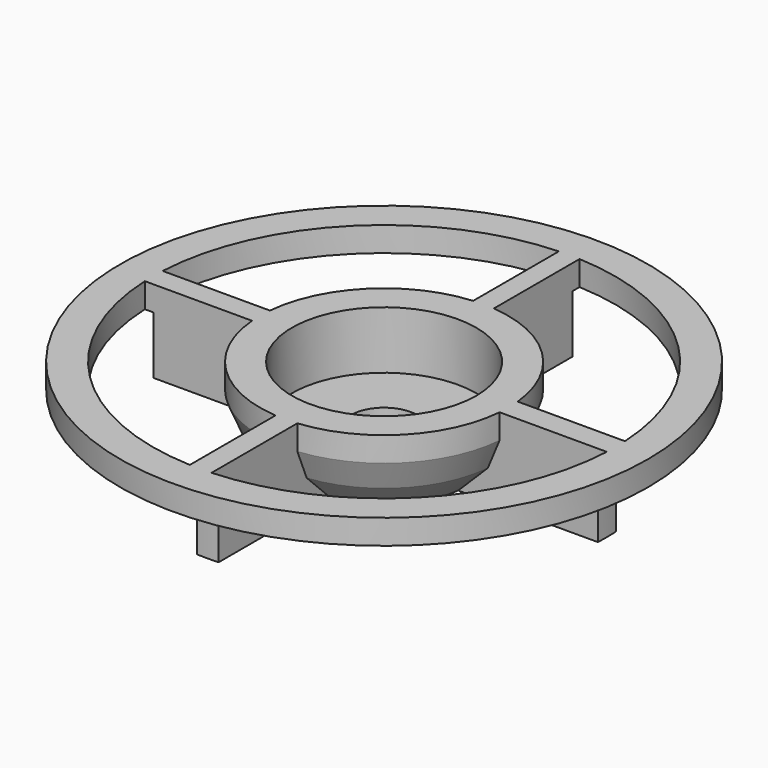
from build123d import *

# Parameters (mm, degrees)
F0_R     = 26.9884014256
F1_DEPTH = 7
F2_R     = 32.0417466588
F2_R_2   = 26.9884014256
F3_DEPTH = 3
F4_R     = 11.1906834264
F5_DEPTH = 7
F6_R     = 4.0199304585
F7_DEPTH = 25
F9_DEPTH = 25
F10_SIZE = 5
F11_SIZE = 2


with BuildPart() as f1:
    # F0 (on Top) → F1 (new body)
    with BuildSketch(Plane.XY):
        Circle(F0_R)
    extrude(amount=F1_DEPTH)

    # F2 (on face) → F3 (join)
    with BuildSketch(Plane.XY.offset(7)):
        Circle(F2_R)
        Circle(F2_R_2, mode=Mode.SUBTRACT)
        Circle(F2_R_2)
    extrude(amount=F3_DEPTH)

    # F4 (on face) → F5 (cut)
    with BuildSketch(Plane.XY.offset(10)):
        Circle(F4_R)
    extrude(amount=-F5_DEPTH, mode=Mode.SUBTRACT)

    # F6 (on face) → F7 (cut)
    with BuildSketch(Plane.XY.offset(3)):
        Circle(F6_R)
    extrude(amount=-F7_DEPTH, mode=Mode.SUBTRACT)

    # F8 (on face) → F9 (cut)
    with BuildSketch(Plane.XY.offset(10)):
        with BuildLine():
            ThreePointArc((-15.0136980872, 1.4416950877), (-10.584772446, 10.7448688798), (-1.2161651409, 15.0336475058))
            Line((-1.2161651409, 15.0336475058), (-1.2161651409, 28.0388555672))
            ThreePointArc((-1.2161651409, 28.0388555672), (-19.7651192157, 19.9247720578), (-28.0281643074, 1.4416950877))
            Line((-28.0281643074, 1.4416950877), (-15.0136980872, 1.4416950877))
        make_face()
        with BuildLine():
            ThreePointArc((1.2975777549, 15.0268395529), (10.5846814228, 10.7449585461), (15.0056430278, 1.5232505708))
            Line((15.0056430278, 1.5232505708), (28.0238503219, 1.5232505708))
            ThreePointArc((28.0238503219, 1.5232505708), (19.7650570518, 19.9248337234), (1.2975777549, 28.0352059228))
            Line((1.2975777549, 28.0352059228), (1.2975777549, 15.0268395529))
        make_face()
        with BuildLine():
            ThreePointArc((15.0298348497, -1.262410143), (10.7403927, -10.5893144079), (1.4751854085, -15.0104444634))
            Line((1.4751854085, -15.0104444634), (1.4751854085, -28.0264215906))
            ThreePointArc((1.4751854085, -28.0264215906), (19.9202803133, -19.7696462135), (28.0368115127, -1.262410143))
            Line((28.0368115127, -1.262410143), (15.0298348497, -1.262410143))
        make_face()
        with BuildLine():
            ThreePointArc((-1.1481693356, -15.038993389), (-10.6271050963, -10.7030020205), (-15.0304418379, -1.2551625933))
            Line((-15.0304418379, -1.2551625933), (-28.0371369086, -1.2551625933))
            ThreePointArc((-28.0371369086, -1.2551625933), (-19.8072075166, -19.8829326197), (-1.1481693356, -28.0417222428))
            Line((-1.1481693356, -28.0417222428), (-1.1481693356, -15.038993389))
        make_face()
    extrude(amount=-F9_DEPTH, mode=Mode.SUBTRACT)

    # F10
    f10_edges = [f1.edges().sort_by_distance(p)[0] for p in [
        (-10.584772, 10.744869, 0),
        (10.584681, 10.744959, 0),
        (-10.627105, -10.703002, 0),
        (10.740393, -10.589314, 0),
    ]]
    chamfer(f10_edges, length=F10_SIZE)

    # F11
    f11_edges = [f1.edges().sort_by_distance(p)[0] for p in [
        (10.740393, -10.589314, 5),
        (-10.627105, -10.703002, 5),
        (10.584681, 10.744959, 5),
        (-10.584772, 10.744869, 5),
    ]]
    chamfer(f11_edges, length=F11_SIZE)


solid = f1.part
